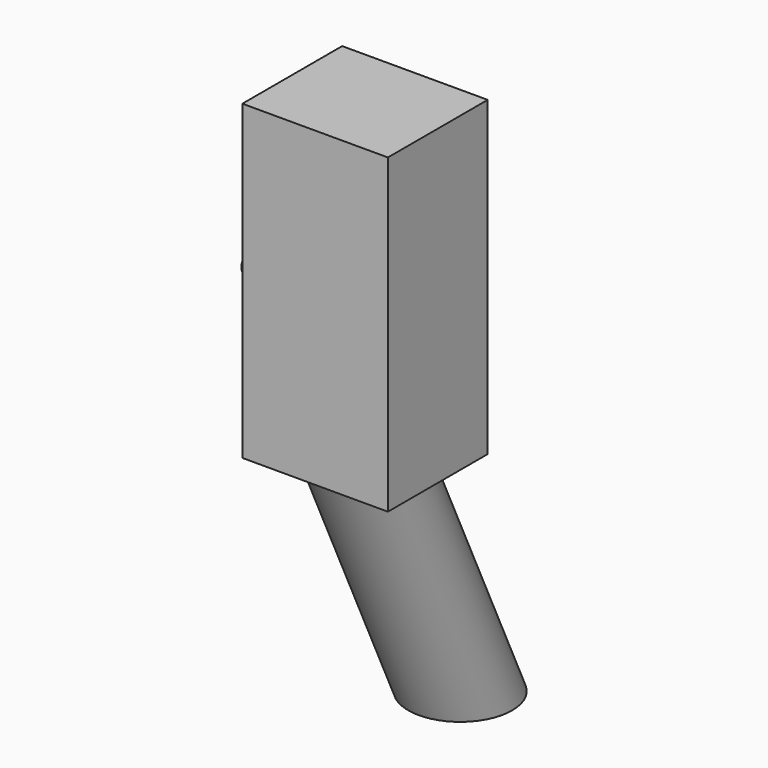
from build123d import *

# Parameters (mm, degrees)
F0_W     = 70
F0_H     = 60
F1_DEPTH = 150
F3_R     = 25
F6_R     = 5
F7_DEPTH = 20.5


with BuildPart() as f1:
    # F0 (on Top) → F1 (new body)
    with BuildSketch(Plane.XY):
        with Locations((35, 30)):
            Rectangle(F0_W, F0_H)
    extrude(amount=F1_DEPTH)

    # F5: sweep along a path in F4
    with BuildLine(Plane.YZ.offset(35)) as f5_path:
        Line((29.8517439514, 0), (87.0807096362, -122.8410974145))
    # F3 (on face) → F5 (sweep)
    with BuildSketch(Plane(origin=(0, 0, 0), x_dir=(1, 0, 0), z_dir=(0, 0, -1))):
        with Locations((35, -30)):
            Circle(F3_R)
    sweep(path=f5_path.line)

    # F6 (on face) → F7 (join)
    with BuildSketch(Plane(origin=(0, 0, 0), x_dir=(0, -1, 0), z_dir=(-1, 0, 0))):
        with Locations((-30, 63.9334544539)):
            Circle(F6_R)
    extrude(amount=F7_DEPTH)


solid = f1.part
